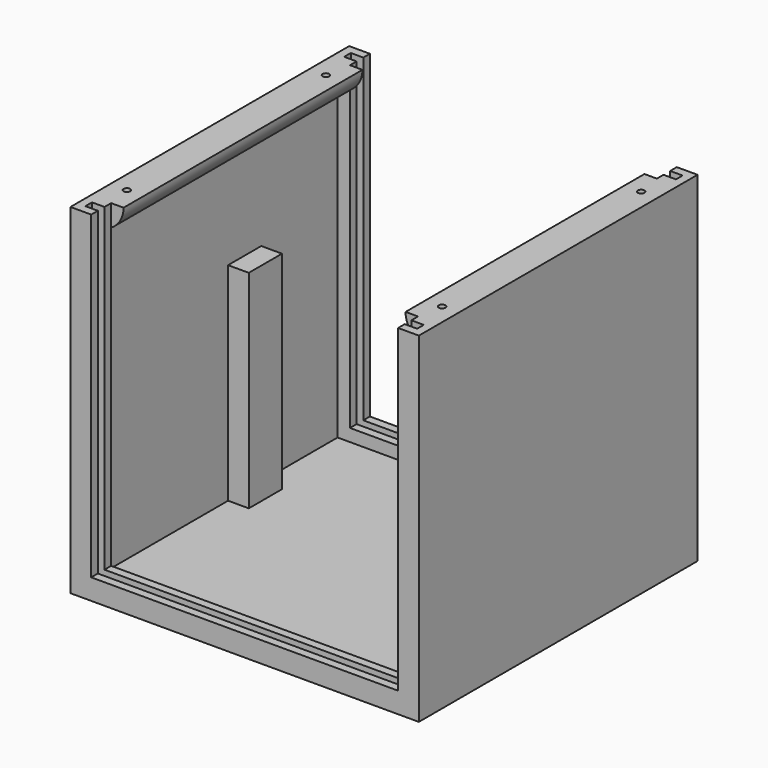
from build123d import *

# Parameters (mm, degrees)
CYLINDER_R        = 0.8
CYLINDER_DEPTH    = 10
CYLINDER001_R     = 0.8
CYLINDER001_DEPTH = 10
CYLINDER002_R     = 0.8
CYLINDER002_DEPTH = 10
CYLINDER003_R     = 0.8
CYLINDER003_DEPTH = 10
BOX004_W          = 74
BOX004_H          = 9
BOX004_DEPTH      = 77
BOX002_W          = 74
BOX002_H          = 8
BOX002_DEPTH      = 77
BOX_W             = 80
BOX_H             = 80
BOX_DEPTH         = 80
THICKNESS_T       = 2
BOX003_W          = 80
BOX003_H          = 2
BOX003_DEPTH      = 80
CYLINDER004_W     = 6
CYLINDER004_H     = 74
CYLINDER004_ANGLE = 90
CYLINDER005_W     = 6
CYLINDER005_H     = 74
CYLINDER005_ANGLE = 90
BOX005_W          = 5
BOX005_H          = 10
BOX005_DEPTH      = 50
BOX006_W          = 5
BOX006_H          = 10
BOX006_DEPTH      = 50
BOX001_W          = 80
BOX001_H          = 2
BOX001_DEPTH      = 80


with BuildPart() as cylinder:
    # Cylinder → Cylinder (new body)
    with BuildSketch(Plane(origin=(2, 10, 70), x_dir=(1, 0, 0), z_dir=(0, 0, 1))):
        Circle(CYLINDER_R)
    extrude(amount=CYLINDER_DEPTH)


with BuildPart() as cylinder001:
    # Cylinder001 → Cylinder001 (new body)
    with BuildSketch(Plane(origin=(2, 70, 70), x_dir=(1, 0, 0), z_dir=(0, 0, 1))):
        Circle(CYLINDER001_R)
    extrude(amount=CYLINDER001_DEPTH)


with BuildPart() as cylinder002:
    # Cylinder002 → Cylinder002 (new body)
    with BuildSketch(Plane(origin=(78, 70, 70), x_dir=(1, 0, 0), z_dir=(0, 0, 1))):
        Circle(CYLINDER002_R)
    extrude(amount=CYLINDER002_DEPTH)


with BuildPart() as cylinder003:
    # Cylinder003 → Cylinder003 (new body)
    with BuildSketch(Plane(origin=(78, 10, 70), x_dir=(1, 0, 0), z_dir=(0, 0, 1))):
        Circle(CYLINDER003_R)
    extrude(amount=CYLINDER003_DEPTH)


with BuildPart() as cube004:
    # Box004 → Box004 (new body)
    with BuildSketch(Plane(origin=(3, 76, 3), x_dir=(1, 0, 0), z_dir=(0, 0, 1))):
        with Locations((37, 4.5)):
            Rectangle(BOX004_W, BOX004_H)
    extrude(amount=BOX004_DEPTH)


with BuildPart() as fusion001:
    # Box002 → Box002 (new body)
    with BuildSketch(Plane(origin=(3, -4, 3), x_dir=(1, 0, 0), z_dir=(0, 0, 1))):
        with Locations((37, 4)):
            Rectangle(BOX002_W, BOX002_H)
    extrude(amount=BOX002_DEPTH)

    # Fusion001: union Cylinder, Cylinder001, Cylinder002, Cylinder003, Cube004
    add(cylinder.part)
    add(cylinder001.part)
    add(cylinder002.part)
    add(cylinder003.part)
    add(cube004.part)


with BuildPart() as thickness:
    # Box → Box (new body)
    with BuildSketch(Plane.XY):
        with Locations((40, 40)):
            Rectangle(BOX_W, BOX_H)
    extrude(amount=BOX_DEPTH)

    # Thickness
    thickness_openings = [thickness.faces().sort_by_distance(p)[0] for p in [
        (40, 40, 80),
    ]]
    offset(amount=THICKNESS_T, openings=thickness_openings, kind=Kind.INTERSECTION)


with BuildPart() as cube003:
    # Box003 → Box003 (new body)
    with BuildSketch(Plane(origin=(0, 76, 0), x_dir=(1, 0, 0), z_dir=(0, 0, 1))):
        with Locations((40, 1)):
            Rectangle(BOX003_W, BOX003_H)
    extrude(amount=BOX003_DEPTH)


with BuildPart() as cylinder004:
    # Cylinder004 → Cylinder004 (revolve)
    with BuildSketch(Plane(origin=(0, 78, 80), x_dir=(0, 0, -1), z_dir=(-1, 0, 0))):
        with Locations((3, 37)):
            Rectangle(CYLINDER004_W, CYLINDER004_H)
    revolve(axis=Axis((0, 78, 80), (0, -1, 0)), revolution_arc=CYLINDER004_ANGLE)


with BuildPart() as cylinder005:
    # Cylinder005 → Cylinder005 (revolve)
    with BuildSketch(Plane(origin=(80, 78, 80), x_dir=(-1, 0, 0), z_dir=(0, 0, 1))):
        with Locations((3, 37)):
            Rectangle(CYLINDER005_W, CYLINDER005_H)
    revolve(axis=Axis((80, 78, 80), (0, -1, 0)), revolution_arc=CYLINDER005_ANGLE)


with BuildPart() as cube005:
    # Box005 → Box005 (new body)
    with BuildSketch(Plane(origin=(0, 43, 0), x_dir=(1, 0, 0), z_dir=(0, 0, 1))):
        with Locations((2.5, 5)):
            Rectangle(BOX005_W, BOX005_H)
    extrude(amount=BOX005_DEPTH)


with BuildPart() as cube006:
    # Box006 → Box006 (new body)
    with BuildSketch(Plane(origin=(75, 43, 0), x_dir=(1, 0, 0), z_dir=(0, 0, 1))):
        with Locations((2.5, 5)):
            Rectangle(BOX006_W, BOX006_H)
    extrude(amount=BOX006_DEPTH)


with BuildPart() as obj1:
    # Box001 → Box001 (new body)
    with BuildSketch(Plane(origin=(0, 2, 0), x_dir=(1, 0, 0), z_dir=(0, 0, 1))):
        with Locations((40, 1)):
            Rectangle(BOX001_W, BOX001_H)
    extrude(amount=BOX001_DEPTH)

    # Fusion: union Thickness, Cube003, Cylinder004, Cylinder005, Cube005, Cube006
    add(thickness.part)
    add(cube003.part)
    add(cylinder004.part)
    add(cylinder005.part)
    add(cube005.part)
    add(cube006.part)

    # Cut: cut Fusion001
    add(fusion001.part, mode=Mode.SUBTRACT)


solid = obj1.part
